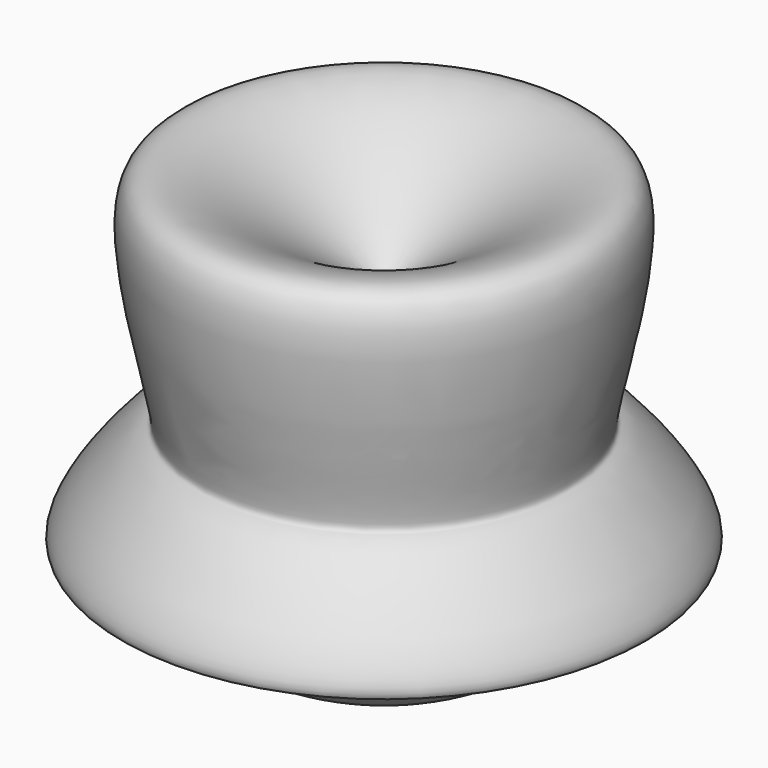
from build123d import *


with BuildPart() as f1:
    # F0 (on Front) → F1 (revolve)
    with BuildSketch(Plane.XZ):
        with BuildLine():
            Line((0, 47.0104850829), (0, -32.2620980442))
            add(Edge.make_bspline(
                [(0, -32.2620980442), (21.7288186094, -24.4227120359), (59.6425154284, -10.7440988674), (-3.4308865317, 27.0782417581), (79.6545244071, -21.8684835498), (44.254928692, 22.0010936188), (38.2022879733, 18.2581691843), (61.2337854658, 90.7136360895), (20.7353949906, 61.8095390947), (0, 47.0104850829)],
                knots=[0, 0, 0, 0, 0.17477253, 0.3049531975, 0.4691662741, 0.6013824011, 0.6489977293, 0.8202849387, 1, 1, 1, 1], degree=3))
        make_face()
    revolve(axis=Axis((0, 0, 7.3741935194), (0, 0, -1)))


solid = f1.part
